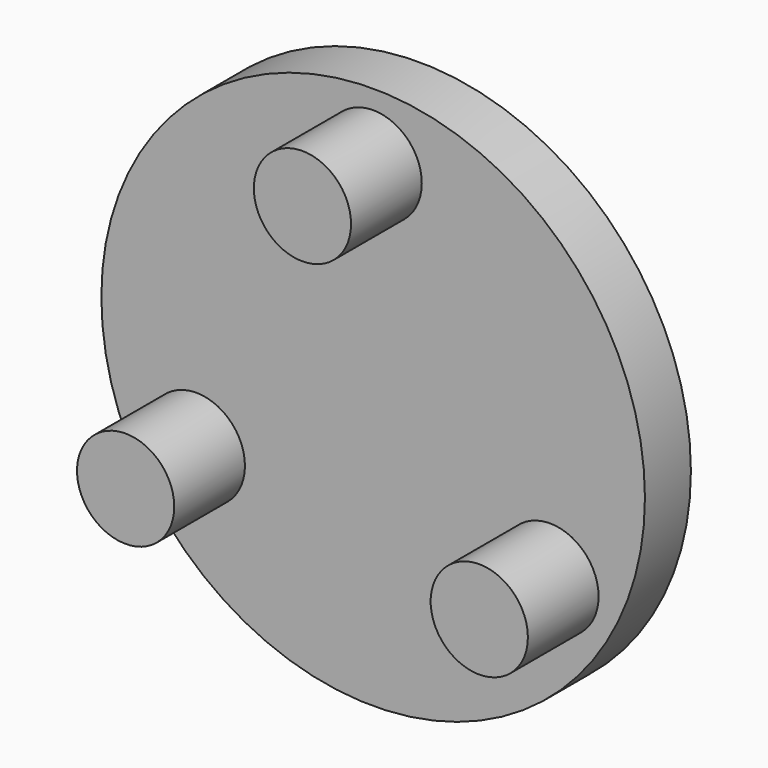
from build123d import *

# Parameters (mm, degrees)
F0_R     = 6.15
F1_DEPTH = 1.3
F2_R     = 1.1
F3_DEPTH = 2
F4_R     = 1.1
F5_DEPTH = 2


with BuildPart() as f1:
    # F0 (on Front) → F1 (new body)
    with BuildSketch(Plane.XZ):
        Circle(F0_R)
    extrude(amount=F1_DEPTH)

    # F2 (on face) → F3 (join)
    with BuildSketch(Plane.XZ.offset(1.3)):
        with Locations((0, 4.62)):
            Circle(F2_R)
        with Locations((-4.0010373655, -2.31)):
            Circle(F2_R)
        with Locations((4.0010373655, -2.31)):
            Circle(F2_R)
    extrude(amount=F3_DEPTH)

    # F4 (on face) → F5 (join)
    with BuildSketch(Plane(origin=(0, 0, 0), x_dir=(-1, 0, 0), z_dir=(0, 1, 0))):
        Circle(F4_R)
    extrude(amount=F5_DEPTH)


solid = f1.part
